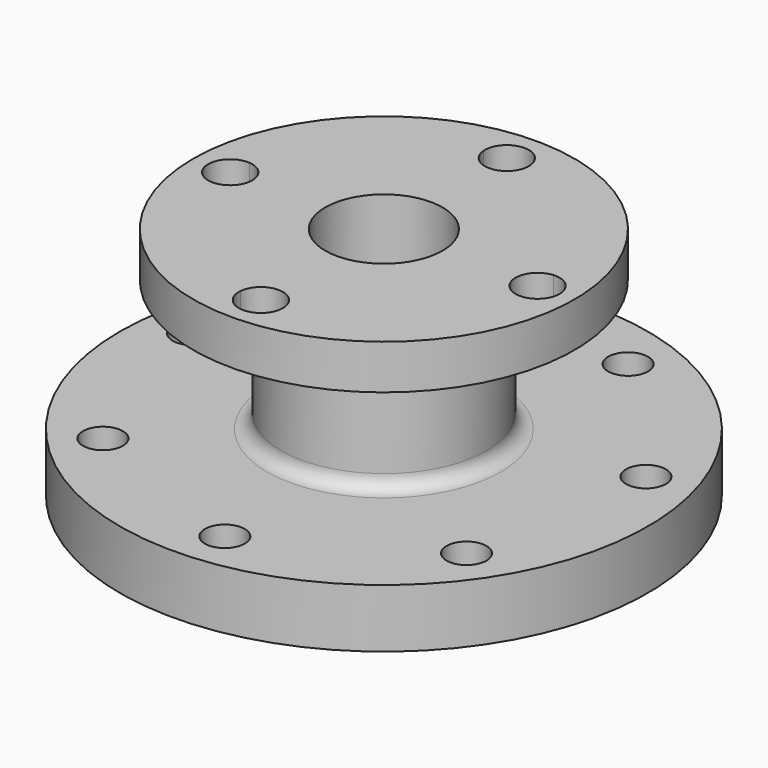
from build123d import *

# Parameters (mm, degrees)
F4_DEPTH = 9.652
F5_R     = 4.318
F6_DEPTH = 12.7
F7_R     = 3.048


with BuildPart() as f1:
    # F0 (on Front) → F1 (revolve)
    with BuildSketch(Plane.XZ):
        Polygon((-57.15, -3.048), (-57.15, -15.748), (-15.875, -15.748), (-15.875, 0), (-12.7, 0), (-12.7, 35.052), (-41.275, 35.052), (-41.275, 25.4), (-22.225, 25.4), (-22.225, -3.048), align=None)
    revolve(axis=Axis((0, 0, 1.128893124), (0, 0, -1)))

    # F2 (on face) → F4 (cut, through all)
    with BuildSketch(Plane.XY.offset(35.052)):
        with BuildLine():
            ThreePointArc((-4.7502886947, 32.9331722328), (0, 28.5115), (4.7502886947, 32.9331722328))
            ThreePointArc((4.7502886947, 32.9331722328), (0, 33.274), (-4.7502886947, 32.9331722328))
        make_face()
        with BuildLine():
            ThreePointArc((-4.7502886947, 32.9331722328), (0, 33.274), (4.7502886947, 32.9331722328))
            ThreePointArc((4.7502886947, 32.9331722328), (4.7594461946, 33.1034767737), (4.7625, 33.274))
            ThreePointArc((4.7625, 33.274), (-0.1705232263, 38.0334461946), (-4.7502886947, 32.9331722328))
        make_face()
        with BuildLine():
            ThreePointArc((32.9331722328, -4.7502886947), (33.1886836804, -2.38125), (33.274, 0))
            ThreePointArc((33.274, 0), (33.1886836804, 2.38125), (32.9331722328, 4.7502886947))
            ThreePointArc((32.9331722328, 4.7502886947), (28.5115, 0), (32.9331722328, -4.7502886947))
        make_face()
        with BuildLine():
            ThreePointArc((32.9331722328, 4.7502886947), (33.1886836804, 2.38125), (33.274, 0))
            ThreePointArc((33.274, 0), (33.1886836804, -2.38125), (32.9331722328, -4.7502886947))
            ThreePointArc((32.9331722328, -4.7502886947), (36.5188585492, -3.4860148086), (38.0365, 0))
            ThreePointArc((38.0365, 0), (36.5188585492, 3.4860148086), (32.9331722328, 4.7502886947))
        make_face()
        with BuildLine():
            ThreePointArc((4.7625, -33.274), (4.7594461946, -33.1034767737), (4.7502886947, -32.9331722328))
            ThreePointArc((4.7502886947, -32.9331722328), (0, -33.274), (-4.7502886947, -32.9331722328))
            ThreePointArc((-4.7502886947, -32.9331722328), (-0.1705232263, -38.0334461946), (4.7625, -33.274))
        make_face()
        with BuildLine():
            ThreePointArc((-4.7502886947, -32.9331722328), (0, -33.274), (4.7502886947, -32.9331722328))
            ThreePointArc((4.7502886947, -32.9331722328), (0, -28.5115), (-4.7502886947, -32.9331722328))
        make_face()
        with BuildLine():
            ThreePointArc((-28.5115, 0), (-29.7879851914, 3.2448585492), (-32.9331722328, 4.7502886947))
            ThreePointArc((-32.9331722328, 4.7502886947), (-33.274, 0), (-32.9331722328, -4.7502886947))
            ThreePointArc((-32.9331722328, -4.7502886947), (-29.7879851914, -3.2448585492), (-28.5115, 0))
        make_face()
        with BuildLine():
            ThreePointArc((-32.9331722328, -4.7502886947), (-33.274, 0), (-32.9331722328, 4.7502886947))
            ThreePointArc((-32.9331722328, 4.7502886947), (-38.0365, 0), (-32.9331722328, -4.7502886947))
        make_face()
    extrude(amount=-F4_DEPTH, mode=Mode.SUBTRACT)

    # F5 (on face) → F6 (cut, through all)
    with BuildSketch(Plane.XY.offset(-3.048)):
        with Locations((-23.8125, 41.2444598552)):
            Circle(F5_R)
        with Locations((-47.093068099, 7.0981379266)):
            Circle(F5_R)
        with Locations((-34.9115953959, -32.3932266363)):
            Circle(F5_R)
        with Locations((3.5590207071, -47.4918308408)):
            Circle(F5_R)
        with Locations((39.3496216268, -26.8281177653)):
            Circle(F5_R)
        with Locations((45.5091548756, 14.0377151813)):
            Circle(F5_R)
        with Locations((17.3993662854, 44.3328622792)):
            Circle(F5_R)
    extrude(amount=-F6_DEPTH, mode=Mode.SUBTRACT)

    # F7
    f7_edges = [f1.edges().sort_by_distance(p)[0] for p in [
        (22.225, 0, -3.048),
        (22.225, 0, 25.4),
    ]]
    fillet(f7_edges, radius=F7_R)


solid = f1.part
